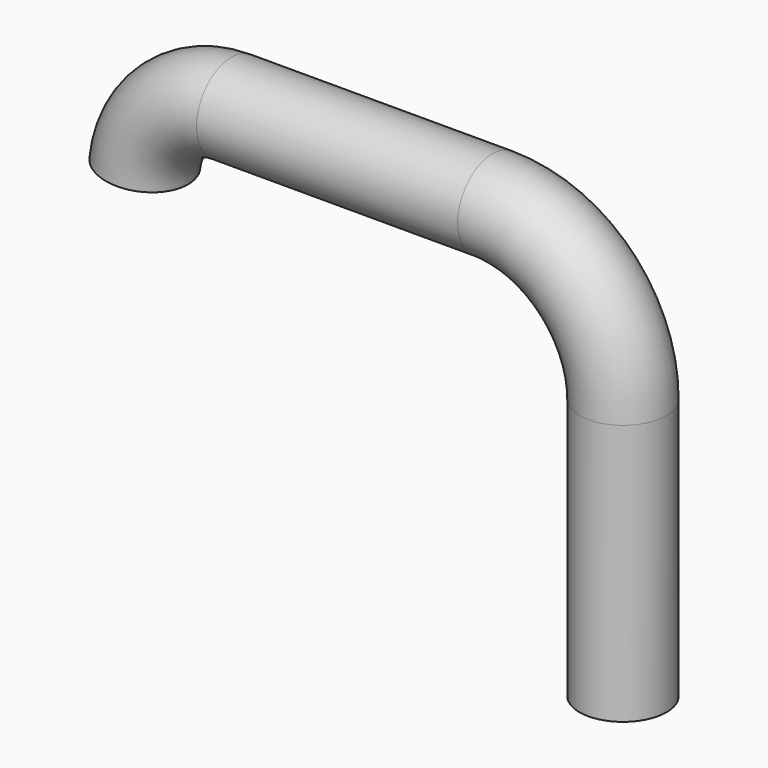
from build123d import *

# Parameters (mm, degrees)
F0_R = 6.35


with BuildPart() as f2:
    # F2: sweep along a path in F1
    with BuildLine(Plane.XZ) as f2_path:
        Line((0, 0), (0, 38.1))
        ThreePointArc((0, 38.1), (-5.5796158184, 51.5703841816), (-19.05, 57.15))
        Line((-19.05, 57.15), (-57.15, 57.15))
        ThreePointArc((-57.15, 57.15), (-65.6495634607, 53.8864941042), (-69.7808788165, 45.773215902))
    # F0 (on Top) → F2 (sweep)
    with BuildSketch(Plane.XY):
        Circle(F0_R)
    sweep(path=f2_path.line)


solid = f2.part
